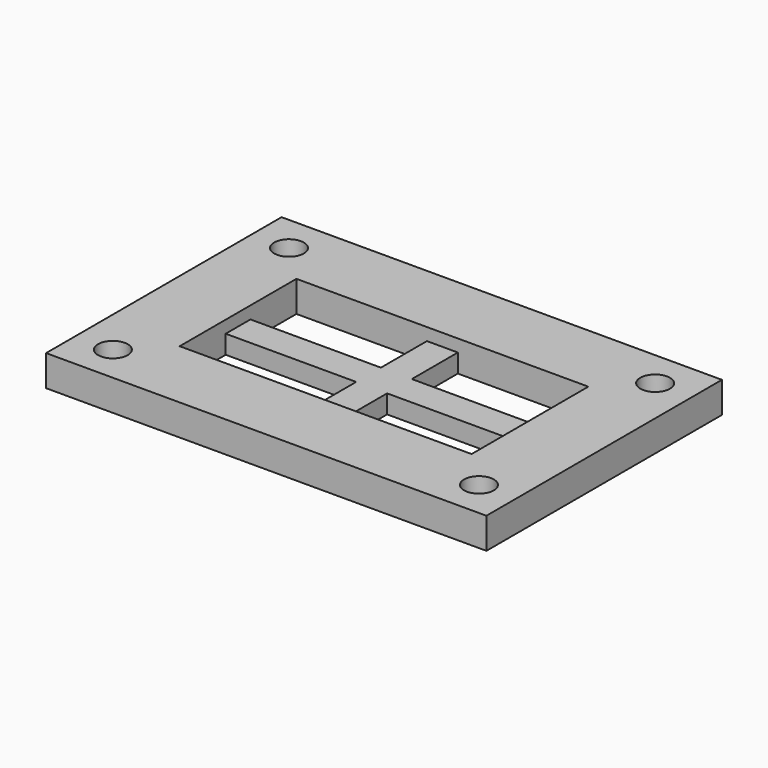
from build123d import *

# Parameters (mm, degrees)
CYLINDER_R       = 1.2
CYLINDER_DEPTH   = 10
ARRAY001_X_COUNT = 2
ARRAY001_X_PITCH = 29.6
ARRAY001_Y_COUNT = 2
ARRAY001_Y_PITCH = 17.8
BOX003_W         = 23.6
BOX003_H         = 11.8
BOX003_DEPTH     = 10
BOX002_W         = 35.6
BOX002_H         = 23.8
BOX002_DEPTH     = 2.5
BOX017_W         = 2.5
BOX017_H         = 23.8
BOX017_DEPTH     = 1.5
BOX005_W         = 35.6
BOX005_H         = 2.5
BOX005_DEPTH     = 1.5


with BuildPart() as bolt_hole_array_clone:
    # Cylinder → Cylinder (new body)
    with BuildSketch(Plane.XY):
        Circle(CYLINDER_R)
    extrude(amount=CYLINDER_DEPTH)

    # Array001 X: bolt hole array clone ×2


with BuildPart() as bolt_hole_array_clone_1:
    add(bolt_hole_array_clone.part)
    with Locations(*[(i * ARRAY001_X_PITCH, 0, 0) for i in range(1, ARRAY001_X_COUNT)]):
        add(bolt_hole_array_clone.part)

    # Array001 Y: bolt hole array clone ×2


with BuildPart() as bolt_hole_array_clone_2:
    add(bolt_hole_array_clone_1.part)
    with Locations(*[(0, i * ARRAY001_Y_PITCH, 0) for i in range(1, ARRAY001_Y_COUNT)]):
        add(bolt_hole_array_clone_1.part)


with BuildPart() as bolt_hole_array_clone_3:
    # Array001 placement: moved
    add(bolt_hole_array_clone_2.part.moved(Location((3, 3, 0))))


with BuildPart() as mesh_extraction_fusion:
    # Box003 → Box003 (new body)
    with BuildSketch(Plane(origin=(6, 6, 0), x_dir=(1, 0, 0), z_dir=(0, 0, 1))):
        with Locations((11.8, 5.9)):
            Rectangle(BOX003_W, BOX003_H)
    extrude(amount=BOX003_DEPTH)

    # Fusion003: union bolt hole array clone
    add(bolt_hole_array_clone_3.part)


with BuildPart() as mesh_border_cut:
    # Box002 → Box002 (new body)
    with BuildSketch(Plane.XY):
        with Locations((17.8, 11.9)):
            Rectangle(BOX002_W, BOX002_H)
    extrude(amount=BOX002_DEPTH)

    # Cut001: cut mesh extraction fusion
    add(mesh_extraction_fusion.part, mode=Mode.SUBTRACT)


with BuildPart() as obj1:
    # Box017 → Box017 (new body)
    with BuildSketch(Plane.XY):
        with Locations((1.25, 11.9)):
            Rectangle(BOX017_W, BOX017_H)
    extrude(amount=BOX017_DEPTH)


with BuildPart() as obj1_1:
    # Array011 placement: moved
    add(obj1.part.moved(Location((16.55, 0, 0))))


with BuildPart() as x_mesh_holder_fusion:
    # Box005 → Box005 (new body)
    with BuildSketch(Plane.XY):
        with Locations((17.8, 1.25)):
            Rectangle(BOX005_W, BOX005_H)
    extrude(amount=BOX005_DEPTH)


with BuildPart() as x_mesh_holder_fusion_1:
    # Array002 placement: moved
    add(x_mesh_holder_fusion.part.moved(Location((0, 10.65, 0))))

    # Fusion001: union mesh border cut, obj1
    add(mesh_border_cut.part)
    add(obj1_1.part)


solid = x_mesh_holder_fusion_1.part
